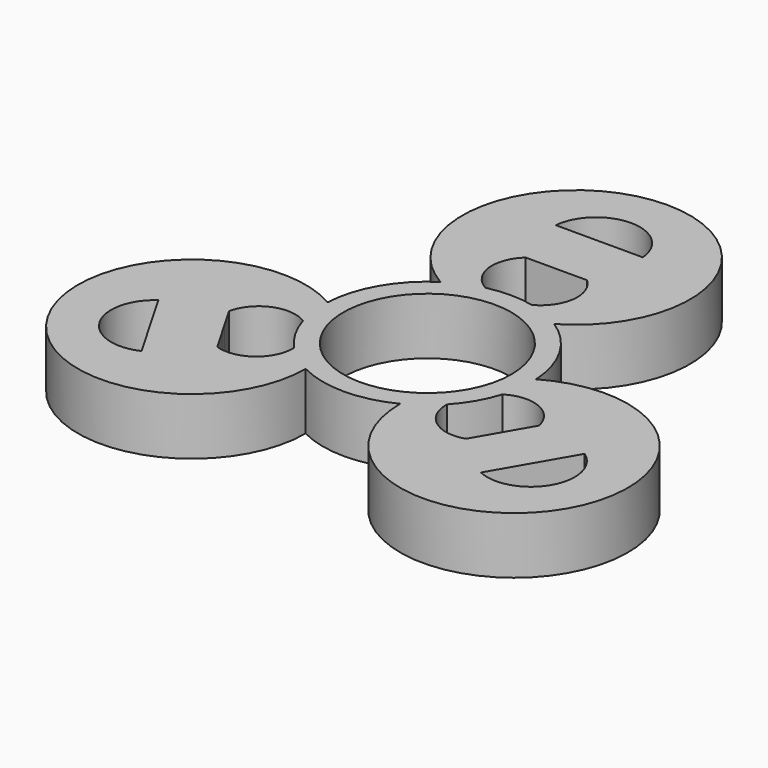
from build123d import *

# Parameters (mm, degrees)
F0_R     = 11.25
F1_DEPTH = 7.62


with BuildPart() as f1:
    # F0 (on Top) → F1 (new body)
    with BuildSketch(Plane.XY):
        with BuildLine():
            ThreePointArc((-13.950137, 0.744703), (-34.768364, -20.073524), (-6.330137, -12.453524))
            ThreePointArc((-6.330137, -12.453524), (-8.419134, -11.148053), (-10.246353, -9.495954))
            ThreePointArc((-10.246353, -9.495954), (-12.1819, -13.590255), (-16.646073, -14.352362))
            Line((-16.646073, -14.352362), (-18.292288, -11.501034))
            Line((-18.292288, -11.501034), (-19.106332, -10.091069))
            Line((-19.106332, -10.091069), (-20.752547, -7.239741))
            ThreePointArc((-20.752547, -7.239741), (-17.860456, -3.754708), (-13.346914, -4.125625))
            ThreePointArc((-13.346914, -4.125625), (-13.864064, -1.717157), (-13.950137, 0.744703))
        make_face()
        with BuildLine():
            ThreePointArc((-22.24008, -20.029417), (-29.763953, -17.643104), (-28.068624, -9.934083))
            Line((-28.068624, -9.934083), (-22.24008, -20.029417))
        make_face(mode=Mode.SUBTRACT)
        with BuildLine():
            ThreePointArc((13.950137, 0.744703), (13.965033, 0.372484), (13.97, 0))
            ThreePointArc((13.97, 0), (13.81335, -2.086206), (13.346914, -4.125625))
            ThreePointArc((13.346914, -4.125625), (17.860456, -3.754708), (20.752547, -7.239741))
            Line((20.752547, -7.239741), (19.106332, -10.091069))
            Line((19.106332, -10.091069), (18.292288, -11.501034))
            Line((18.292288, -11.501034), (16.646073, -14.352362))
            ThreePointArc((16.646073, -14.352362), (12.1819, -13.590255), (10.246353, -9.495954))
            ThreePointArc((10.246353, -9.495954), (8.419134, -11.148053), (6.330137, -12.453524))
            ThreePointArc((6.330137, -12.453524), (34.768364, -20.073524), (13.950137, 0.744703))
        make_face()
        with BuildLine():
            ThreePointArc((28.466024, -9.245766), (30.161353, -16.954788), (22.63748, -19.3411))
            Line((22.63748, -19.3411), (28.466024, -9.245766))
        make_face(mode=Mode.SUBTRACT)
        with BuildLine():
            ThreePointArc((3.100561, 13.621579), (5.44493, 12.86521), (7.62, 11.708821))
            ThreePointArc((7.62, 11.708821), (0, 40.147049), (-7.62, 11.708821))
            ThreePointArc((-7.62, 11.708821), (-5.44493, 12.86521), (-3.100561, 13.621579))
            ThreePointArc((-3.100561, 13.621579), (-5.678556, 17.344963), (-4.106474, 21.592103))
            Line((-4.106474, 21.592103), (-0.814044, 21.592103))
            Line((-0.814044, 21.592103), (0.814044, 21.592103))
            Line((0.814044, 21.592103), (4.106474, 21.592103))
            ThreePointArc((4.106474, 21.592103), (5.678556, 17.344963), (3.100561, 13.621579))
        make_face()
        with BuildLine():
            Line((5.431144, 29.275183), (-6.225944, 29.275183))
            ThreePointArc((-6.225944, 29.275183), (-0.3974, 34.597892), (5.431144, 29.275183))
        make_face(mode=Mode.SUBTRACT)
        with BuildLine():
            ThreePointArc((13.346914, -4.125625), (13.81335, -2.086206), (13.97, 0))
            ThreePointArc((13.97, 0), (13.965033, 0.372484), (13.950137, 0.744703))
            ThreePointArc((13.950137, 0.744703), (12.098375, 6.985), (7.62, 11.708821))
            ThreePointArc((7.62, 11.708821), (5.44493, 12.86521), (3.100561, 13.621579))
            ThreePointArc((3.100561, 13.621579), (0, 13.97), (-3.100561, 13.621579))
            ThreePointArc((-3.100561, 13.621579), (-5.44493, 12.86521), (-7.62, 11.708821))
            ThreePointArc((-7.62, 11.708821), (-12.098375, 6.985), (-13.950137, 0.744703))
            ThreePointArc((-13.950137, 0.744703), (-13.864064, -1.717157), (-13.346914, -4.125625))
            ThreePointArc((-13.346914, -4.125625), (-12.098375, -6.985), (-10.246353, -9.495954))
            ThreePointArc((-10.246353, -9.495954), (-8.419134, -11.148053), (-6.330137, -12.453524))
            ThreePointArc((-6.330137, -12.453524), (0, -13.97), (6.330137, -12.453524))
            ThreePointArc((6.330137, -12.453524), (8.419134, -11.148053), (10.246353, -9.495954))
            ThreePointArc((10.246353, -9.495954), (12.098375, -6.985), (13.346914, -4.125625))
        make_face()
        Circle(F0_R, mode=Mode.SUBTRACT)
    extrude(amount=F1_DEPTH)


solid = f1.part
